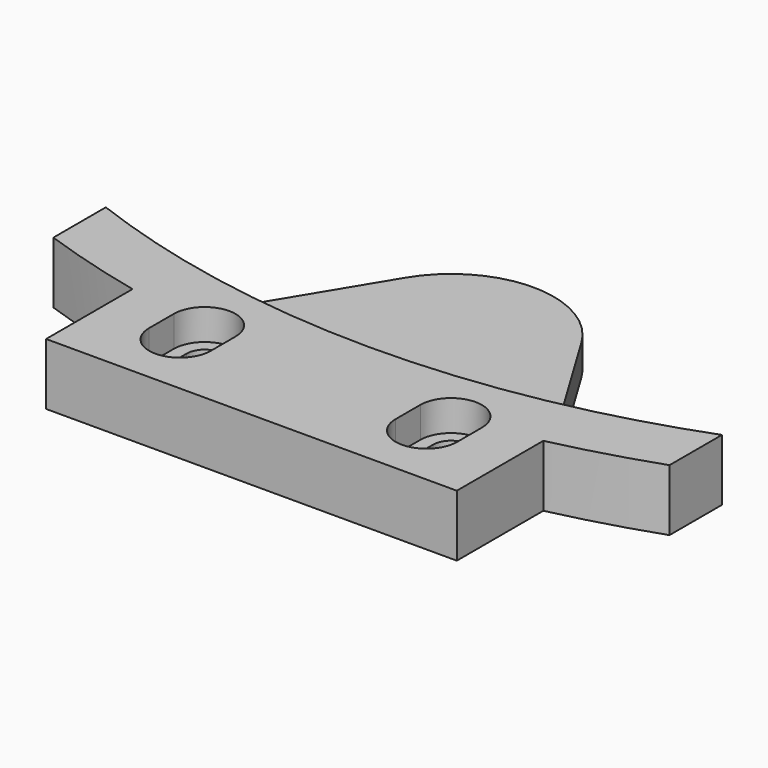
from build123d import *

# Parameters (mm, degrees)
PAD004_DEPTH = 3
PAD_DEPTH    = 6
PAD002_DEPTH = 6
PAD003_DEPTH = 3
PAD001_DEPTH = 6


with BuildPart() as counterborehole_pad:
    # Sketch004 → Pad004 (new body)
    with BuildSketch(Plane.XY.offset(3)):
        with BuildLine():
            ThreePointArc((-15, -93.000008), (-11.999996, -96), (-9, -93))
            Line((-9, -90), (-9, -93))
            ThreePointArc((-9, -90), (-12, -87), (-15, -90.000001))
            Line((-15, -90.000001), (-15, -93.000008))
        make_face()
        with BuildLine():
            ThreePointArc((15, -90.000001), (12, -87), (9, -90))
            Line((9, -90), (9, -93))
            ThreePointArc((9, -93), (11.999996, -96), (15, -93.000008))
            Line((15, -90.000001), (15, -93.000008))
        make_face()
    extrude(amount=PAD004_DEPTH)


with BuildPart() as throughhole_pad:
    # Sketch003 → Pad (new body)
    with BuildSketch(Plane.XY):
        with BuildLine():
            ThreePointArc((-10.25, -90), (-12.000001, -88.25), (-13.75, -90.000003))
            Line((-13.75, -90.000003), (-13.75, -93))
            ThreePointArc((-13.75, -93), (-12, -94.75), (-10.25, -93))
            Line((-10.25, -90), (-10.25, -93))
        make_face()
        with BuildLine():
            ThreePointArc((13.75, -90.000003), (12.000001, -88.25), (10.25, -90))
            Line((10.25, -90), (10.25, -93))
            ThreePointArc((10.25, -93), (12, -94.75), (13.75, -93))
            Line((13.75, -90.000003), (13.75, -93))
        make_face()
    extrude(amount=PAD_DEPTH)


with BuildPart() as frame_pad:
    # Sketch002 → Pad002 (new body)
    with BuildSketch(Plane.XY):
        with BuildLine():
            ThreePointArc((-30, -79.529869), (0, -85), (30, -79.529869))
            Line((30, -79.529869), (30, -85.912746))
            ThreePointArc((-30, -85.912746), (0, -91), (30, -85.912746))
            Line((-30, -85.912746), (-30, -79.529869))
        make_face()
    extrude(amount=PAD002_DEPTH)


with BuildPart() as base_pad:
    # Sketch001 → Pad003 (new body)
    with BuildSketch(Plane.XY):
        with BuildLine():
            ThreePointArc((8.560325, -69.83078), (0, -65), (-8.560325, -69.83078))
            Line((-20, -88.774996), (-8.560325, -69.83078))
            ThreePointArc((-20, -88.774996), (0, -91), (20, -88.774996))
            Line((8.560325, -69.83078), (20, -88.774996))
        make_face()
    extrude(amount=PAD003_DEPTH)


with BuildPart() as counterborehole_cut:
    # Sketch → Pad001 (new body)
    with BuildSketch(Plane.XY):
        with BuildLine():
            ThreePointArc((-20, -82.613558), (0, -85), (20, -82.613558))
            Line((20, -82.613558), (20, -99.299958))
            Line((20, -99.299958), (-20, -99.299958))
            Line((-20, -99.299958), (-20, -82.613558))
        make_face()
    extrude(amount=PAD001_DEPTH)

    # Fusion: union Frame_Pad, Base_Pad
    add(frame_pad.part)
    add(base_pad.part)

    # Cut: cut ThroughHole_Pad
    add(throughhole_pad.part, mode=Mode.SUBTRACT)

    # Cut001: cut CounterboreHole_Pad
    add(counterborehole_pad.part, mode=Mode.SUBTRACT)


solid = counterborehole_cut.part
